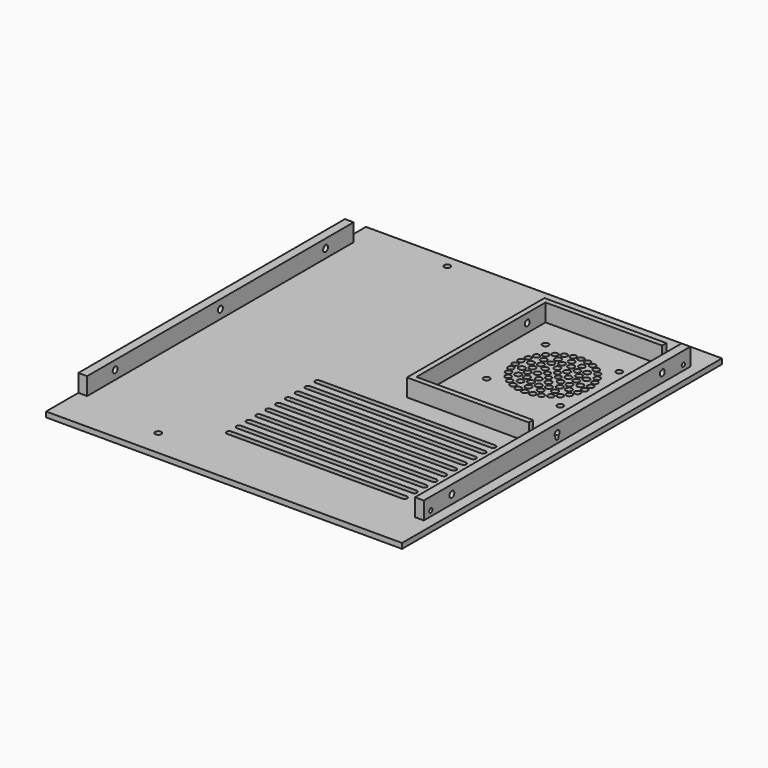
from build123d import *

# Parameters (mm, degrees)
SKETCH_W        = 203
SKETCH_H        = 228
SKETCH_R        = 1.75
PAD_DEPTH       = 3
SKETCH001_W     = 5
SKETCH001_H     = 190
PAD001_DEPTH    = 10.01
SKETCH002_R     = 1.75
POCKET_DEPTH    = 220
SKETCH003_R     = 1.15
POCKET001_DEPTH = 5.5
SKETCH005_R     = 1.8
SKETCH005_R_2   = 1.7
SKETCH005_R_3   = 1.75
SKETCH005_R_4   = 1.6
POCKET002_DEPTH = 5.5


with BuildPart() as part:
    # Sketch → Pad (new body)
    with BuildSketch(Plane.XY):
        with Locations((-25, -4)):
            Rectangle(SKETCH_W, SKETCH_H)
        with Locations((-74.5, 103)):
            Circle(SKETCH_R, mode=Mode.SUBTRACT)
        with Locations((-74.5, -103)):
            Circle(SKETCH_R, mode=Mode.SUBTRACT)
        with BuildLine():
            ThreePointArc((-50, -18.5), (-51.5, -20), (-50, -21.5))
            Line((-50, -21.5), (50, -21.5))
            ThreePointArc((50, -21.5), (51.5, -20), (50, -18.5))
            Line((-50, -18.5), (50, -18.5))
        make_face(mode=Mode.SUBTRACT)
        with BuildLine():
            ThreePointArc((-50, -25.5), (-51.5, -27), (-50, -28.5))
            Line((-50, -28.5), (50, -28.5))
            ThreePointArc((50, -28.5), (51.5, -27), (50, -25.5))
            Line((-50, -25.5), (50, -25.5))
        make_face(mode=Mode.SUBTRACT)
        with BuildLine():
            ThreePointArc((-50, -32.5), (-51.5, -34), (-50, -35.5))
            Line((-50, -35.5), (50, -35.5))
            ThreePointArc((50, -35.5), (51.5, -34), (50, -32.5))
            Line((-50, -32.5), (50, -32.5))
        make_face(mode=Mode.SUBTRACT)
        with BuildLine():
            ThreePointArc((-50, -39.5), (-51.5, -41), (-50, -42.5))
            Line((-50, -42.5), (50, -42.5))
            ThreePointArc((50, -42.5), (51.5, -41), (50, -39.5))
            Line((-50, -39.5), (50, -39.5))
        make_face(mode=Mode.SUBTRACT)
        with BuildLine():
            ThreePointArc((-50, -46.5), (-51.5, -48), (-50, -49.5))
            Line((-50, -49.5), (50, -49.5))
            ThreePointArc((50, -49.5), (51.5, -48), (50, -46.5))
            Line((-50, -46.5), (50, -46.5))
        make_face(mode=Mode.SUBTRACT)
        with BuildLine():
            ThreePointArc((-50, -53.5), (-51.5, -55), (-50, -56.5))
            Line((-50, -56.5), (50, -56.5))
            ThreePointArc((50, -56.5), (51.5, -55), (50, -53.5))
            Line((-50, -53.5), (50, -53.5))
        make_face(mode=Mode.SUBTRACT)
        with BuildLine():
            ThreePointArc((-50, -60.5), (-51.5, -62), (-50, -63.5))
            Line((-50, -63.5), (50, -63.5))
            ThreePointArc((50, -63.5), (51.5, -62), (50, -60.5))
            Line((-50, -60.5), (50, -60.5))
        make_face(mode=Mode.SUBTRACT)
        with BuildLine():
            ThreePointArc((-50, -67.5), (-51.5, -69), (-50, -70.5))
            Line((-50, -70.5), (50, -70.5))
            ThreePointArc((50, -70.5), (51.5, -69), (50, -67.5))
            Line((-50, -67.5), (50, -67.5))
        make_face(mode=Mode.SUBTRACT)
        with BuildLine():
            ThreePointArc((-50, -74.5), (-51.5, -76), (-50, -77.5))
            Line((-50, -77.5), (50, -77.5))
            ThreePointArc((50, -77.5), (51.5, -76), (50, -74.5))
            Line((-50, -74.5), (50, -74.5))
        make_face(mode=Mode.SUBTRACT)
        with BuildLine():
            ThreePointArc((-50, -81.5), (-51.5, -83), (-50, -84.5))
            Line((-50, -84.5), (50, -84.5))
            ThreePointArc((50, -84.5), (51.5, -83), (50, -81.5))
            Line((-50, -81.5), (50, -81.5))
        make_face(mode=Mode.SUBTRACT)
    extrude(amount=PAD_DEPTH)

    # Sketch001 → Pad001 (join)
    with BuildSketch(Plane.XY.offset(3)):
        with Locations((-124, 0)):
            Rectangle(SKETCH001_W, SKETCH001_H)
        with Locations((68, 0)):
            Rectangle(SKETCH001_W, SKETCH001_H)
        Polygon((60, 91), (-9.5, 91), (-9.5, -7), (60, -7), (60, -4), (-6.5, -4), (-6.5, 88), (60, 88), align=None)
    extrude(amount=PAD001_DEPTH)

    # Sketch002 → Pocket (cut, symmetric)
    with BuildSketch(Plane.YZ.offset(-116.5)):
        with Locations((-75, 8)):
            Circle(SKETCH002_R)
        with Locations((0, 8)):
            Circle(SKETCH002_R)
        with Locations((75, 8)):
            Circle(SKETCH002_R)
    extrude(amount=POCKET_DEPTH, both=True, mode=Mode.SUBTRACT)

    # Sketch003 → Pocket001 (cut)
    with BuildSketch(Plane.YZ.offset(73.5)):
        with Locations((-90, 6)):
            Circle(SKETCH003_R)
        with Locations((0, 6)):
            Circle(SKETCH003_R)
        with Locations((90, 6)):
            Circle(SKETCH003_R)
    extrude(amount=-POCKET001_DEPTH, mode=Mode.SUBTRACT)

    # Sketch005 → Pocket002 (cut)
    with BuildSketch(Plane(origin=(40, 60, 0), x_dir=(1, 0, 0), z_dir=(0, 0, 1))):
        with Locations((-13.721043, 5.674388)):
            Circle(SKETCH005_R)
        with Locations((-16.264029, 9.856091)):
            Circle(SKETCH005_R_2)
        with Locations((-15.773102, 1.367326)):
            Circle(SKETCH005_R)
        with Locations((-20.239142, 8.564048)):
            Circle(SKETCH005_R_2)
        with Locations((-19.837396, 3.687065)):
            Circle(SKETCH005_R)
        with Locations((-23.860114, 6.473479)):
            Circle(SKETCH005_R_2)
        with Locations((-14.849041, -3.103349)):
            Circle(SKETCH005_R)
        with Locations((-19.949988, -1.072984)):
            Circle(SKETCH005_R)
        with Locations((-26.967306, 3.675751)):
            Circle(SKETCH005_R_2)
        with Locations((-24.616644, -0.61619)):
            Circle(SKETCH005_R)
        with Locations((-29.424917, 0.293139)):
            Circle(SKETCH005_R_2)
        with Locations((-18.714545, -6.978221)):
            Circle(SKETCH005_R)
        with Locations((-22.777848, -4.997866)):
            Circle(SKETCH005_R)
        with Locations((-31.125539, -3.526521)):
            Circle(SKETCH005_R_2)
        with Locations((-27.232413, -6.491304)):
            Circle(SKETCH005_R)
        with Locations((-31.994847, -7.616292)):
            Circle(SKETCH005_R_2)
        with Locations((-23.77044, -9.732446)):
            Circle(SKETCH005_R)
        with Locations((-31.994847, -11.79743)):
            Circle(SKETCH005_R_2)
        with Locations((-27.232413, -12.922418)):
            Circle(SKETCH005_R)
        with Locations((-31.125539, -15.887201)):
            Circle(SKETCH005_R_2)
        with Locations((-18.707921, -12.451493)):
            Circle(SKETCH005_R)
        with Locations((-22.75709, -14.462627)):
            Circle(SKETCH005_R)
        with Locations((-29.424917, -19.706861)):
            Circle(SKETCH005_R_2)
        with Locations((-24.616644, -18.797532)):
            Circle(SKETCH005_R)
        with Locations((-26.967306, -23.089473)):
            Circle(SKETCH005_R_2)
        with Locations((-19.912042, -18.375067)):
            Circle(SKETCH005_R)
        with Locations((-23.860114, -25.887201)):
            Circle(SKETCH005_R_2)
        with Locations((-19.837396, -23.100787)):
            Circle(SKETCH005_R)
        with Locations((-20.239142, -27.97777)):
            Circle(SKETCH005_R_2)
        with Locations((-9.359777, -16.310373)):
            Circle(SKETCH005_R)
        with Locations((-15.724492, -20.797034)):
            Circle(SKETCH005_R)
        with Locations((-16.262643, -29.269813)):
            Circle(SKETCH005_R_2)
        with Locations((-13.721043, -25.08811)):
            Circle(SKETCH005_R)
        with Locations((-12.104409, -29.706861)):
            Circle(SKETCH005_R_2)
        with Locations((-12.105765, 10.293139)):
            Circle(SKETCH005_R_2)
        with Locations((-33.104409, 11.293139)):
            Circle(SKETCH005_R_3)
        with Locations((-33.104409, -30.706861)):
            Circle(SKETCH005_R_3)
        with Locations((-15.178447, -9.706861)):
            Circle(SKETCH005_R_4)
        with Locations((-7.944789, 9.856091)):
            Circle(SKETCH005_R_2)
        with Locations((5.216099, 0.293139)):
            Circle(SKETCH005_R_2)
        with Locations((2.758488, 3.675751)):
            Circle(SKETCH005_R_2)
        with Locations((-0.348704, 6.473479)):
            Circle(SKETCH005_R_2)
        with Locations((-3.969676, 8.564048)):
            Circle(SKETCH005_R_2)
        with Locations((6.916721, -3.526521)):
            Circle(SKETCH005_R_2)
        with Locations((7.786029, -7.616292)):
            Circle(SKETCH005_R_2)
        with Locations((7.786029, -11.79743)):
            Circle(SKETCH005_R_2)
        with Locations((6.916721, -15.887201)):
            Circle(SKETCH005_R_2)
        with Locations((5.216099, -19.706861)):
            Circle(SKETCH005_R_2)
        with Locations((2.758488, -23.089473)):
            Circle(SKETCH005_R_2)
        with Locations((-0.348704, -25.887201)):
            Circle(SKETCH005_R_2)
        with Locations((-3.969676, -27.97777)):
            Circle(SKETCH005_R_2)
        with Locations((-7.946175, -29.269813)):
            Circle(SKETCH005_R_2)
        with Locations((-7.32516, 5.002154)):
            Circle(SKETCH005_R_2)
        with Locations((-1.755653, 1.786597)):
            Circle(SKETCH005_R)
        with Locations((2.02446, -3.416283)):
            Circle(SKETCH005_R)
        with Locations((2.02446, -15.997439)):
            Circle(SKETCH005_R)
        with Locations((-1.755653, -21.200319)):
            Circle(SKETCH005_R)
        with Locations((-7.32516, -24.415876)):
            Circle(SKETCH005_R)
        with Locations((-6.174191, 0.339504)):
            Circle(SKETCH005_R)
        with Locations((-2.608677, -2.92984)):
            Circle(SKETCH005_R)
        with Locations((-0.675929, -7.364473)):
            Circle(SKETCH005_R)
        with Locations((-0.708276, -12.201874)):
            Circle(SKETCH005_R)
        with Locations((-2.700157, -16.610264)):
            Circle(SKETCH005_R)
        with Locations((-6.309072, -19.831633)):
            Circle(SKETCH005_R)
        with Locations((-9.375769, -3.096725)):
            Circle(SKETCH005_R)
        with Locations((-5.500897, -6.962229)):
            Circle(SKETCH005_R)
        with Locations((-12.10507, -12.780899)):
            Circle(SKETCH005_R_4)
        with Locations((-5.494273, -12.435501)):
            Circle(SKETCH005_R)
        with Locations((-10.91448, -21.312075)):
            Circle(SKETCH005_R)
        with Locations((8.895591, 11.293139)):
            Circle(SKETCH005_R_3)
        with Locations((8.895591, -30.706861)):
            Circle(SKETCH005_R_3)
        with Locations((-14.833049, -16.316997)):
            Circle(SKETCH005_R)
        with Locations((-10.965395, 1.903461)):
            Circle(SKETCH005_R)
        with Locations((-11.931226, -6.594054)):
            Circle(SKETCH005_R_4)
        with Locations((-9.088884, -9.676053)):
            Circle(SKETCH005_R_4)
        with Locations((3.560039, -9.764024)):
            Circle(SKETCH005_R)
    extrude(amount=POCKET002_DEPTH, mode=Mode.SUBTRACT)


solid = part.part
